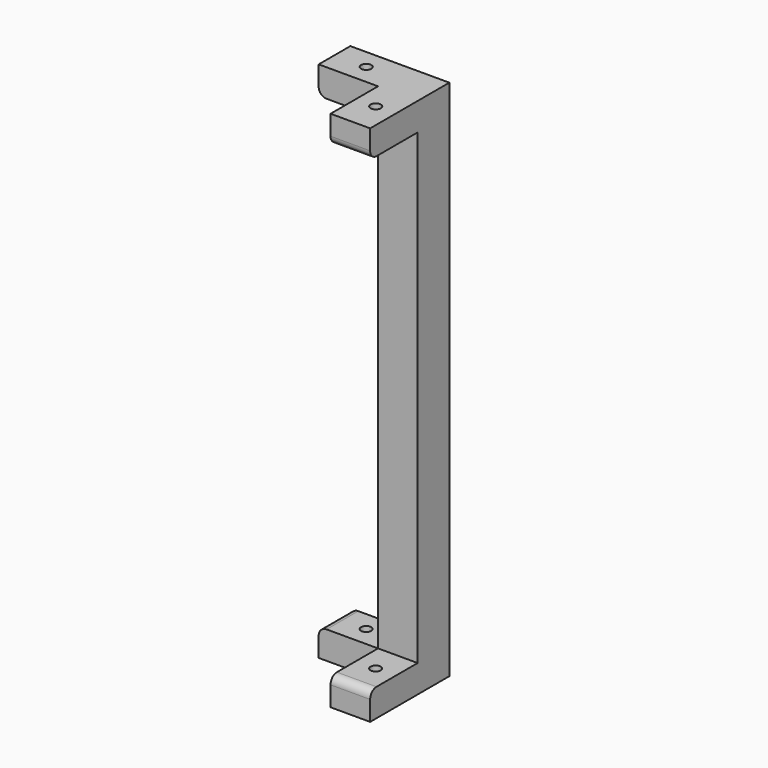
from build123d import *

# Parameters (mm, degrees)
CYLINDER021_R          = 1.3
CYLINDER021_DEPTH      = 146
CYLINDER022_R          = 1.3
CYLINDER022_DEPTH      = 146
BOX085_W               = 10
BOX085_H               = 10
BOX085_DEPTH           = 132
BOX086_W               = 15
BOX086_H               = 10
BOX086_DEPTH           = 7
BOX084_W               = 10
BOX084_H               = 15
BOX084_DEPTH           = 7
BOX082_W               = 10
BOX082_H               = 15
BOX082_DEPTH           = 7
BOX083_W               = 15
BOX083_H               = 10
BOX083_DEPTH           = 7
FILLET004_R            = 2
CUT035_PLACEMENT_ANGLE = 180


with BuildPart() as cilindro021:
    # Cylinder021 → Cylinder021 (new body)
    with BuildSketch(Plane(origin=(5, 17, 8), x_dir=(1, 0, 0), z_dir=(0, 0, 1))):
        Circle(CYLINDER021_R)
    extrude(amount=CYLINDER021_DEPTH)


with BuildPart() as cilindro022:
    # Cylinder022 → Cylinder022 (new body)
    with BuildSketch(Plane(origin=(17, 5, 8), x_dir=(1, 0, 0), z_dir=(0, 0, 1))):
        Circle(CYLINDER022_R)
    extrude(amount=CYLINDER022_DEPTH)


with BuildPart() as cubo048:
    # Box085 → Box085 (new body)
    with BuildSketch(Plane.XY.offset(15)):
        with Locations((5, 5)):
            Rectangle(BOX085_W, BOX085_H)
    extrude(amount=BOX085_DEPTH)


with BuildPart() as cubo049:
    # Box086 → Box086 (new body)
    with BuildSketch(Plane(origin=(10, 0, 140), x_dir=(1, 0, 0), z_dir=(0, 0, 1))):
        with Locations((7.5, 5)):
            Rectangle(BOX086_W, BOX086_H)
    extrude(amount=BOX086_DEPTH)


with BuildPart() as cubo047:
    # Box084 → Box084 (new body)
    with BuildSketch(Plane(origin=(0, 10, 15), x_dir=(1, 0, 0), z_dir=(0, 0, 1))):
        with Locations((5, 7.5)):
            Rectangle(BOX084_W, BOX084_H)
    extrude(amount=BOX084_DEPTH)


with BuildPart() as cubo045:
    # Box082 → Box082 (new body)
    with BuildSketch(Plane(origin=(0, 10, 140), x_dir=(1, 0, 0), z_dir=(0, 0, 1))):
        with Locations((5, 7.5)):
            Rectangle(BOX082_W, BOX082_H)
    extrude(amount=BOX082_DEPTH)


with BuildPart() as obj1:
    # Box083 → Box083 (new body)
    with BuildSketch(Plane(origin=(10, 0, 15), x_dir=(1, 0, 0), z_dir=(0, 0, 1))):
        with Locations((7.5, 5)):
            Rectangle(BOX083_W, BOX083_H)
    extrude(amount=BOX083_DEPTH)

    # Fusion012: union Cubo048, Cubo049, Cubo047, Cubo045
    add(cubo048.part)
    add(cubo049.part)
    add(cubo047.part)
    add(cubo045.part)

    # Fillet004
    fillet004_edges = [obj1.edges().sort_by_distance(p)[0] for p in [
        (25, 5, 22),
        (25, 5, 140),
        (5, 25, 22),
        (5, 25, 140),
    ]]
    fillet(fillet004_edges, radius=FILLET004_R)

    # Cut036: cut Cilindro022
    add(cilindro022.part, mode=Mode.SUBTRACT)

    # Cut035: cut Cilindro021
    add(cilindro021.part, mode=Mode.SUBTRACT)


with BuildPart() as obj1_1:
    # Cut035 placement: moved
    add(obj1.part.moved(Location((340, 230, 0))).rotate(Axis((340, 230, 0), (0, 0, 1)), CUT035_PLACEMENT_ANGLE))


solid = obj1_1.part
